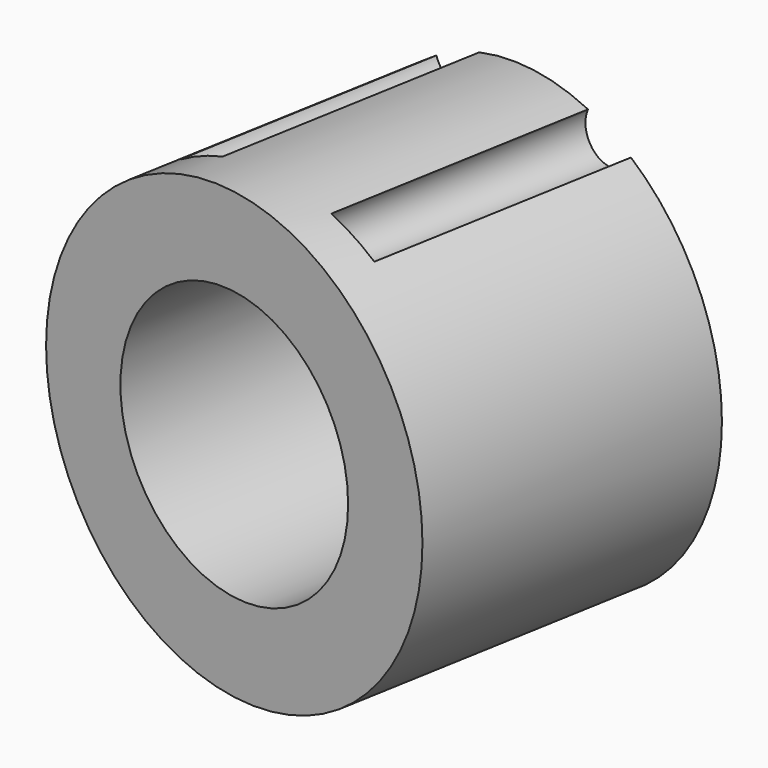
from build123d import *

# Parameters (mm, degrees)
CYLINDER034_R               = 1.25
CYLINDER034_DEPTH           = 14
CYLINDER034_ROLL_ANGLE      = -89.999776
CYLINDER034_PITCH_ANGLE     = 1.4e-05
CYLINDER034_PLACEMENT_ANGLE = -9.999925
CYLINDER033_R               = 1.25
CYLINDER033_DEPTH           = 14
CYLINDER033_ROLL_ANGLE      = -89.999776
CYLINDER033_PITCH_ANGLE     = 1.4e-05
CYLINDER033_PLACEMENT_ANGLE = -9.999925
CYLINDER032_R               = 1.25
CYLINDER032_DEPTH           = 14
CYLINDER032_ROLL_ANGLE      = -89.999776
CYLINDER032_PITCH_ANGLE     = 1.4e-05
CYLINDER032_PLACEMENT_ANGLE = -9.999925
CYLINDER031_R               = 1.25
CYLINDER031_DEPTH           = 14
CYLINDER031_ROLL_ANGLE      = -89.999776
CYLINDER031_PITCH_ANGLE     = 1.4e-05
CYLINDER031_PLACEMENT_ANGLE = -9.999925
CYLINDER025_R               = 6.05
CYLINDER025_DEPTH           = 18
CYLINDER025_ROLL_ANGLE      = -89.999807
CYLINDER025_PITCH_ANGLE     = 8e-06
CYLINDER025_PLACEMENT_ANGLE = -9.999933
CYLINDER024_R               = 4.75
CYLINDER024_DEPTH           = 9
CYLINDER024_ROLL_ANGLE      = -89.999776
CYLINDER024_PITCH_ANGLE     = 1.4e-05
CYLINDER024_PLACEMENT_ANGLE = -9.999925
CYLINDER023_R               = 10
CYLINDER023_DEPTH           = 14
CYLINDER023_ROLL_ANGLE      = -89.999807
CYLINDER023_PITCH_ANGLE     = 8e-06
CYLINDER023_PLACEMENT_ANGLE = -9.999933


with BuildPart() as cylinder034:
    # Cylinder034 → Cylinder034 (new body)
    with BuildSketch(Plane.XY):
        Circle(CYLINDER034_R)
    extrude(amount=CYLINDER034_DEPTH)


with BuildPart() as cylinder034_1:
    # Cylinder034 roll: moved
    add(cylinder034.part.rotate(Axis((0, 0, 0), (1, 0, 0)), CYLINDER034_ROLL_ANGLE))


with BuildPart() as cylinder034_2:
    # Cylinder034 pitch: moved
    add(cylinder034_1.part.rotate(Axis((0, 0, 0), (0, 1, 0)), CYLINDER034_PITCH_ANGLE))


with BuildPart() as cylinder034_3:
    # Cylinder034 placement: moved
    add(cylinder034_2.part.moved(Location((39.936529, -25.15494, 7.500007))).rotate(Axis((39.936529, -25.15494, 7.500007), (0, 0, 1)), CYLINDER034_PLACEMENT_ANGLE))


with BuildPart() as cylinder033:
    # Cylinder033 → Cylinder033 (new body)
    with BuildSketch(Plane.XY):
        Circle(CYLINDER033_R)
    extrude(amount=CYLINDER033_DEPTH)


with BuildPart() as cylinder033_1:
    # Cylinder033 roll: moved
    add(cylinder033.part.rotate(Axis((0, 0, 0), (1, 0, 0)), CYLINDER033_ROLL_ANGLE))


with BuildPart() as cylinder033_2:
    # Cylinder033 pitch: moved
    add(cylinder033_1.part.rotate(Axis((0, 0, 0), (0, 1, 0)), CYLINDER033_PITCH_ANGLE))


with BuildPart() as cylinder033_3:
    # Cylinder033 placement: moved
    add(cylinder033_2.part.moved(Location((39.936521, -25.15501, 25.500007))).rotate(Axis((39.936521, -25.15501, 25.500007), (0, 0, 1)), CYLINDER033_PLACEMENT_ANGLE))


with BuildPart() as cylinder032:
    # Cylinder032 → Cylinder032 (new body)
    with BuildSketch(Plane.XY):
        Circle(CYLINDER032_R)
    extrude(amount=CYLINDER032_DEPTH)


with BuildPart() as cylinder032_1:
    # Cylinder032 roll: moved
    add(cylinder032.part.rotate(Axis((0, 0, 0), (1, 0, 0)), CYLINDER032_ROLL_ANGLE))


with BuildPart() as cylinder032_2:
    # Cylinder032 pitch: moved
    add(cylinder032_1.part.rotate(Axis((0, 0, 0), (0, 1, 0)), CYLINDER032_PITCH_ANGLE))


with BuildPart() as cylinder032_3:
    # Cylinder032 placement: moved
    add(cylinder032_2.part.moved(Location((32.058057, -23.765835, 25.500009))).rotate(Axis((32.058057, -23.765835, 25.500009), (0, 0, 1)), CYLINDER032_PLACEMENT_ANGLE))


with BuildPart() as cylinder031:
    # Cylinder031 → Cylinder031 (new body)
    with BuildSketch(Plane.XY):
        Circle(CYLINDER031_R)
    extrude(amount=CYLINDER031_DEPTH)


with BuildPart() as cylinder031_1:
    # Cylinder031 roll: moved
    add(cylinder031.part.rotate(Axis((0, 0, 0), (1, 0, 0)), CYLINDER031_ROLL_ANGLE))


with BuildPart() as cylinder031_2:
    # Cylinder031 pitch: moved
    add(cylinder031_1.part.rotate(Axis((0, 0, 0), (0, 1, 0)), CYLINDER031_PITCH_ANGLE))


with BuildPart() as cylinder031_3:
    # Cylinder031 placement: moved
    add(cylinder031_2.part.moved(Location((32.055183, -23.766017, 7.500006))).rotate(Axis((32.055183, -23.766017, 7.500006), (0, 0, 1)), CYLINDER031_PLACEMENT_ANGLE))


with BuildPart() as bohrung_lager:
    # Cylinder025 → Cylinder025 (new body)
    with BuildSketch(Plane.XY):
        Circle(CYLINDER025_R)
    extrude(amount=CYLINDER025_DEPTH)


with BuildPart() as bohrung_lager_1:
    # Cylinder025 roll: moved
    add(bohrung_lager.part.rotate(Axis((0, 0, 0), (1, 0, 0)), CYLINDER025_ROLL_ANGLE))


with BuildPart() as bohrung_lager_2:
    # Cylinder025 pitch: moved
    add(bohrung_lager_1.part.rotate(Axis((0, 0, 0), (0, 1, 0)), CYLINDER025_PITCH_ANGLE))


with BuildPart() as bohrung_lager_3:
    # Cylinder025 placement: moved
    add(bohrung_lager_2.part.moved(Location((35.652514, -26.433263, 16.499993))).rotate(Axis((35.652514, -26.433263, 16.499993), (0, 0, 1)), CYLINDER025_PLACEMENT_ANGLE))


with BuildPart() as cylinder024:
    # Cylinder024 → Cylinder024 (new body)
    with BuildSketch(Plane.XY):
        Circle(CYLINDER024_R)
    extrude(amount=CYLINDER024_DEPTH)


with BuildPart() as cylinder024_1:
    # Cylinder024 roll: moved
    add(cylinder024.part.rotate(Axis((0, 0, 0), (1, 0, 0)), CYLINDER024_ROLL_ANGLE))


with BuildPart() as cylinder024_2:
    # Cylinder024 pitch: moved
    add(cylinder024_1.part.rotate(Axis((0, 0, 0), (0, 1, 0)), CYLINDER024_PITCH_ANGLE))


with BuildPart() as cylinder024_3:
    # Cylinder024 placement: moved
    add(cylinder024_2.part.moved(Location((33.913531, -36.27808, 15.499961))).rotate(Axis((33.913531, -36.27808, 15.499961), (0, 0, 1)), CYLINDER024_PLACEMENT_ANGLE))


with BuildPart() as cut031:
    # Cylinder023 → Cylinder023 (new body)
    with BuildSketch(Plane.XY):
        Circle(CYLINDER023_R)
    extrude(amount=CYLINDER023_DEPTH)


with BuildPart() as cut031_1:
    # Cylinder023 roll: moved
    add(cut031.part.rotate(Axis((0, 0, 0), (1, 0, 0)), CYLINDER023_ROLL_ANGLE))


with BuildPart() as cut031_2:
    # Cylinder023 pitch: moved
    add(cut031_1.part.rotate(Axis((0, 0, 0), (0, 1, 0)), CYLINDER023_PITCH_ANGLE))


with BuildPart() as cut031_3:
    # Cylinder023 placement: moved
    add(cut031_2.part.moved(Location((35.652514, -26.433263, 16.499993))).rotate(Axis((35.652514, -26.433263, 16.499993), (0, 0, 1)), CYLINDER023_PLACEMENT_ANGLE))

    # Cut022: cut Cylinder024
    add(cylinder024_3.part, mode=Mode.SUBTRACT)

    # Cut023: cut bohrung_lager
    add(bohrung_lager_3.part, mode=Mode.SUBTRACT)

    # Cut028: cut Cylinder031
    add(cylinder031_3.part, mode=Mode.SUBTRACT)

    # Cut029: cut Cylinder032
    add(cylinder032_3.part, mode=Mode.SUBTRACT)

    # Cut030: cut Cylinder033
    add(cylinder033_3.part, mode=Mode.SUBTRACT)

    # Cut031: cut Cylinder034
    add(cylinder034_3.part, mode=Mode.SUBTRACT)


solid = cut031_3.part
